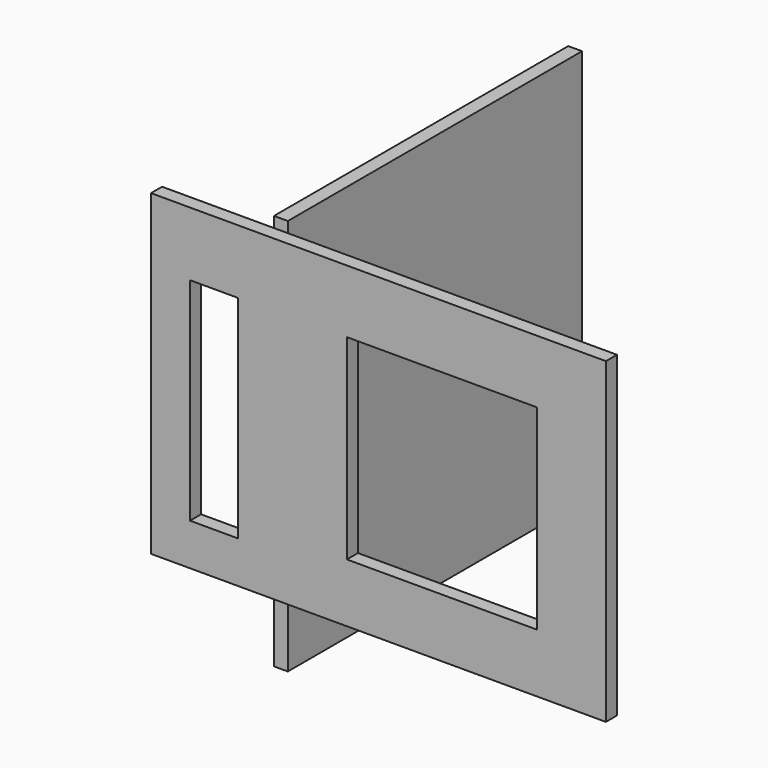
from build123d import *

# Parameters (mm, degrees)
F0_W     = 79.7340683639
F0_H     = 85.9794691205
F1_DEPTH = 1.5
F2_W     = 98.6210182309
F2_H     = 68.8554085791
F2_W_2   = 10.3953666985
F2_H_2   = 45.9013376385
F2_W_3   = 41.1995127797
F2_H_3   = 42.4321740866
F3_DEPTH = 3


with BuildPart() as f1:
    # F0 (on Right) → F1 (new body, symmetric)
    with BuildSketch(Plane.YZ):
        with Locations((7.6460968703, -6.7139007151)):
            Rectangle(F0_W, F0_H)
    extrude(amount=F1_DEPTH, both=True)


with BuildPart() as f3:
    # F2 (on face) → F3 (new body)
    with BuildSketch(Plane.XZ.offset(32.2209373116)):
        with Locations((23.5506780446, -0.4716236144)):
            Rectangle(F2_W, F2_H)
        with Locations((-12.113891542, -2.8631547466)):
            Rectangle(F2_W_2, F2_H_2, mode=Mode.SUBTRACT)
        with Locations((37.3034104705, -0.9344760329)):
            Rectangle(F2_W_3, F2_H_3, mode=Mode.SUBTRACT)
    extrude(amount=F3_DEPTH)


solid = Compound([f1.part, f3.part])
